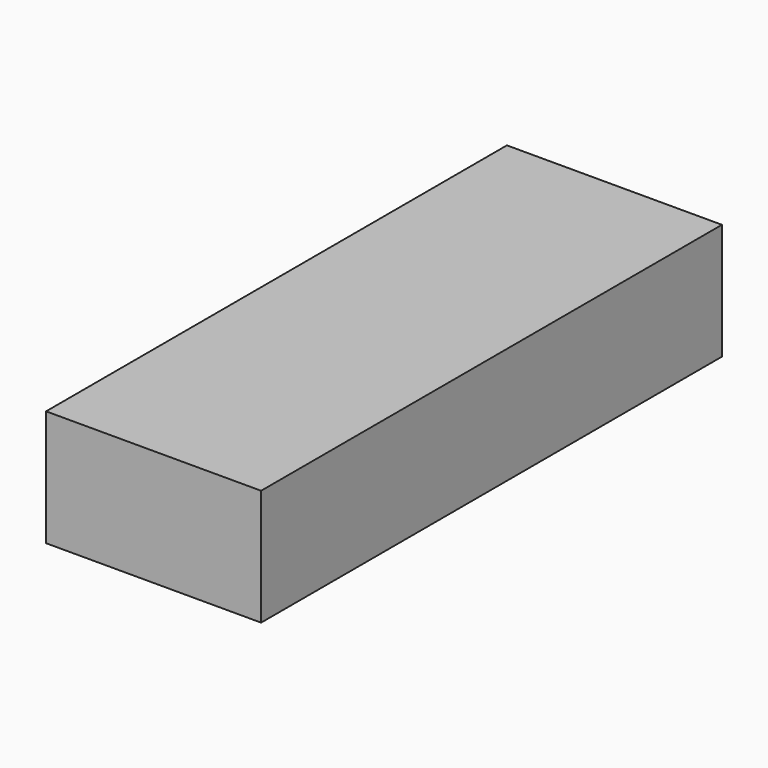
from build123d import *

# Parameters (mm, degrees)
F3_DEPTH = 25.4


with BuildPart() as f3:
    # F2 (on face) → F3 (new body)
    with BuildSketch(Plane.XY):
        Polygon((47.036566, 79.76225), (0, 79.76225), (0, -46.239235), (47.036566, -46.239235), (47.036566, -36.260754), align=None)
    extrude(amount=F3_DEPTH)


solid = f3.part
